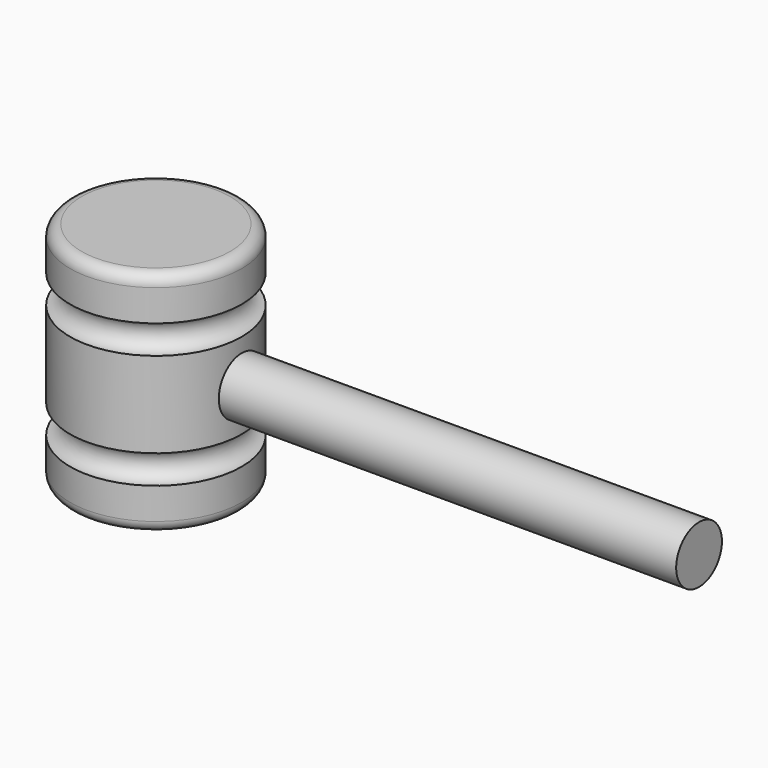
from build123d import *

# Parameters (mm, degrees)
F2_R     = 5.08
F3_R     = 12.7
F4_DEPTH = 203.2


with BuildPart() as f1:
    # F0 (on Front) → F1 (revolve)
    with BuildSketch(Plane.XZ):
        with BuildLine():
            Line((-38.1, 0), (0, 0))
            Line((0, 0), (0, 19.05))
            ThreePointArc((0, 19.05), (-6.35, 25.4), (0, 31.75))
            Line((0, 31.75), (0, 69.85))
            ThreePointArc((0, 69.85), (-6.35, 76.2), (0, 82.55))
            Line((0, 82.55), (0, 101.6))
            Line((0, 101.6), (-38.1, 101.6))
            Line((-38.1, 101.6), (-38.1, 0))
        make_face()
    revolve(axis=Axis((-38.1, 0, 50.8), (0, 0, -1)))

    # F2
    f2_edges = [f1.edges().sort_by_distance(p)[0] for p in [
        (-76.2, 0, 101.6),
        (-76.2, 0, 0),
    ]]
    fillet(f2_edges, radius=F2_R)

    # F3 (on Right) → F4 (join)
    with BuildSketch(Plane.YZ):
        with Locations((0, 50.8)):
            Circle(F3_R)
    extrude(amount=F4_DEPTH)


solid = f1.part
